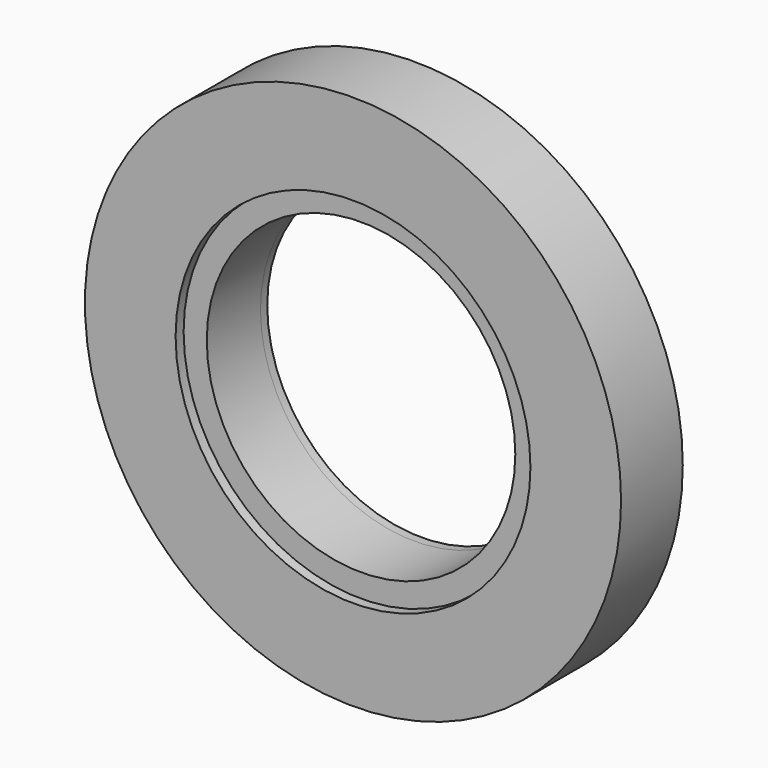
from build123d import *

# Parameters (mm, degrees)
F0_R     = 34.75
F0_R_2   = 20
F1_DEPTH = 10
F2_R     = 23
F2_R_2   = 20
F3_DEPTH = 1.3
F4_R     = 23
F4_R_2   = 20
F5_DEPTH = 1.1


with BuildPart() as f1:
    # F0 (on Front) → F1 (new body)
    with BuildSketch(Plane.XZ):
        Circle(F0_R)
        Circle(F0_R_2, mode=Mode.SUBTRACT)
    extrude(amount=F1_DEPTH)

    # F2 (on face) → F3 (cut)
    with BuildSketch(Plane.XZ.offset(10)):
        Circle(F2_R)
        Circle(F2_R_2, mode=Mode.SUBTRACT)
    extrude(amount=-F3_DEPTH, mode=Mode.SUBTRACT)

    # F4 (on face) → F5 (join)
    with BuildSketch(Plane(origin=(0, 0, 0), x_dir=(-1, 0, 0), z_dir=(0, 1, 0))):
        Circle(F4_R)
        Circle(F4_R_2, mode=Mode.SUBTRACT)
    extrude(amount=F5_DEPTH)


solid = f1.part
